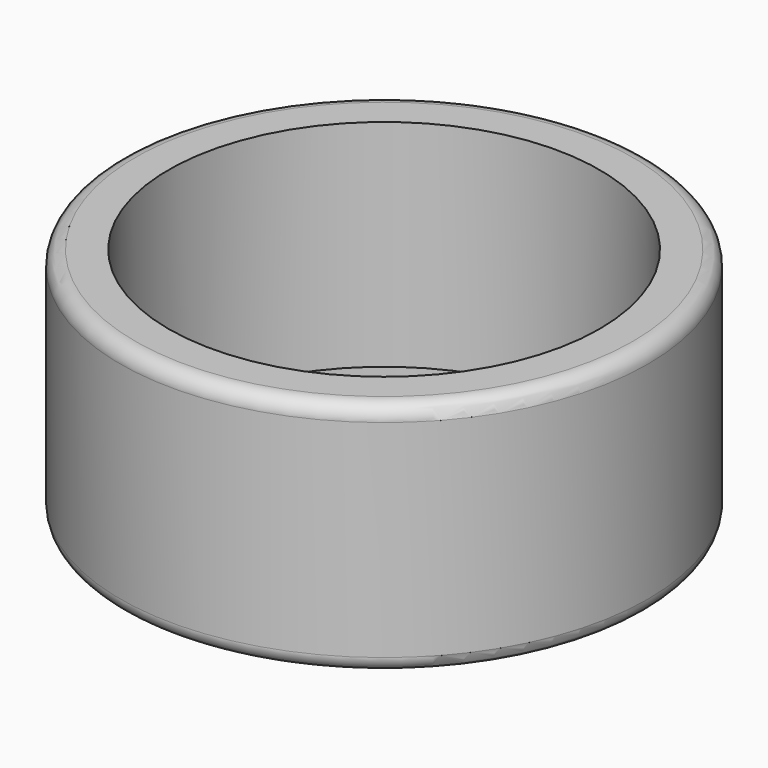
from build123d import *

# Parameters (mm, degrees)
F0_R     = 12.25
F0_R_2   = 10.5
F0_R_3   = 10
F1_DEPTH = 11
F2_DEPTH = 1
F3_R     = 0.7


with BuildPart() as f1:
    # F0 (on Top) → F1 (new body)
    with BuildSketch(Plane.XY):
        Circle(F0_R)
        Circle(F0_R_2, mode=Mode.SUBTRACT)
        Circle(F0_R_2)
        Circle(F0_R_3, mode=Mode.SUBTRACT)
    extrude(amount=F1_DEPTH)

    # F0 (on Top) → F2 (cut)
    with BuildSketch(Plane.XY):
        Circle(F0_R_2)
        Circle(F0_R_3, mode=Mode.SUBTRACT)
    extrude(amount=F2_DEPTH, mode=Mode.SUBTRACT)

    # F3
    f3_edges = [f1.edges().sort_by_distance(p)[0] for p in [
        (-12.25, 0, 0),
        (-12.25, 0, 11),
    ]]
    fillet(f3_edges, radius=F3_R)


solid = f1.part
